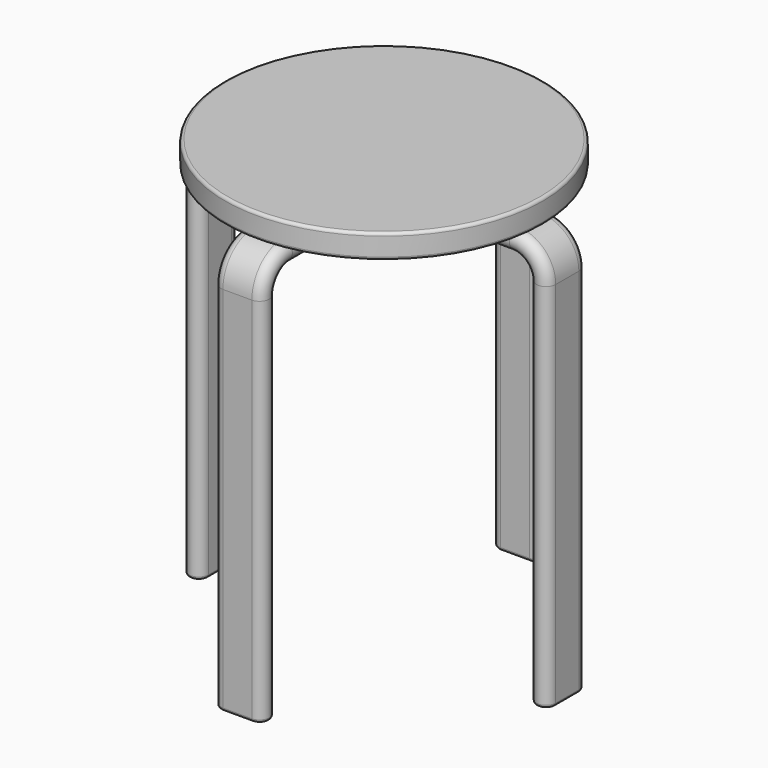
from build123d import *

# Parameters (mm, degrees)
F4_COUNT = 4
F5_W     = 165
F5_H     = 25
F7_R     = 3
F7_2_R   = 3
F7_3_R   = 3
F7_4_R   = 3
F7_5_R   = 3


with BuildPart() as f2:
    # F2: sweep along a path in F1
    with BuildLine(Plane.XZ) as f2_path:
        Line((-180, 0), (-180, 385))
        ThreePointArc((-180, 385), (-171.2132034356, 406.2132034356), (-150, 415))
        Line((-150, 415), (-50, 415))
    # F0 (on Top) → F2 (sweep)
    with BuildSketch(Plane.XY):
        with BuildLine():
            Line((-170, -15), (-170, 15))
            ThreePointArc((-170, 15), (-180, 25), (-190, 15))
            Line((-190, 15), (-190, -15))
            ThreePointArc((-190, -15), (-180, -25), (-170, -15))
        make_face()
    sweep(path=f2_path.line)


with BuildPart() as f4_1:
    # F4: instance of F2
    add(f2.part.rotate(Axis((0, 0, 41.5284819901), (0, 0, 1)), 1 * 360 / F4_COUNT))

    # F7#3
    f7_3_edges = [f4_1.edges().sort_by_distance(p)[0] for p in [
        (-15, -190, 192.5),
        (0, -190, 0),
        (15, -190, 192.5),
        (0, -190, 385),
        (15, -178.284271, 413.284271),
        (25, -180, 385),
        (15, -164.142136, 399.142136),
        (25, -150, 415),
        (15, -100, 425),
        (15, -100, 405),
        (25, -50, 415),
        (25, -180, 0),
        (15, -170, 192.5),
        (-15, -164.142136, 399.142136),
        (-25, -180, 385),
        (-15, -178.284271, 413.284271),
        (-25, -150, 415),
        (-15, -170, 192.5),
        (-25, -180, 0),
        (0, -50, 405),
        (-25, -50, 415),
        (0, -50, 425),
        (0, -170, 0),
        (0, -150, 425),
        (-15, -100, 405),
        (-15, -100, 425),
        (0, -170, 385),
        (0, -150, 405),
    ]]
    fillet(f7_3_edges, radius=F7_3_R)


with BuildPart() as f4_2:
    # F4: instance of F2
    add(f2.part.rotate(Axis((0, 0, 41.5284819901), (0, 0, 1)), 2 * 360 / F4_COUNT))

    # F7#4
    f7_4_edges = [f4_2.edges().sort_by_distance(p)[0] for p in [
        (50, 0, 405),
        (50, -25, 415),
        (50, 0, 425),
        (50, 25, 415),
        (170, 0, 0),
        (180, -25, 0),
        (190, 0, 0),
        (180, 25, 0),
        (170, -15, 192.5),
        (190, -15, 192.5),
        (180, -25, 385),
        (178.284271, -15, 413.284271),
        (100, -15, 405),
        (150, -25, 415),
        (100, -15, 425),
        (164.142136, -15, 399.142136),
        (190, 15, 192.5),
        (170, 15, 192.5),
        (180, 25, 385),
        (178.284271, 15, 413.284271),
        (164.142136, 15, 399.142136),
        (150, 25, 415),
        (190, 0, 385),
        (150, 0, 425),
        (100, 15, 425),
        (100, 15, 405),
        (170, 0, 385),
        (150, 0, 405),
    ]]
    fillet(f7_4_edges, radius=F7_4_R)


with BuildPart() as f4_3:
    # F4: instance of F2
    add(f2.part.rotate(Axis((0, 0, 41.5284819901), (0, 0, 1)), 3 * 360 / F4_COUNT))

    # F7#2
    f7_2_edges = [f4_3.edges().sort_by_distance(p)[0] for p in [
        (15, 170, 192.5),
        (25, 180, 0),
        (15, 190, 192.5),
        (25, 180, 385),
        (-15, 190, 192.5),
        (-25, 180, 0),
        (-15, 170, 192.5),
        (-25, 180, 385),
        (0, 170, 0),
        (0, 170, 385),
        (0, 190, 0),
        (15, 100, 405),
        (25, 150, 415),
        (15, 100, 425),
        (25, 50, 415),
        (0, 50, 425),
        (0, 50, 405),
        (-25, 50, 415),
        (15, 164.142136, 399.142136),
        (15, 178.284271, 413.284271),
        (-15, 100, 425),
        (-25, 150, 415),
        (-15, 100, 405),
        (0, 190, 385),
        (0, 150, 425),
        (-15, 178.284271, 413.284271),
        (0, 150, 405),
        (-15, 164.142136, 399.142136),
    ]]
    fillet(f7_2_edges, radius=F7_2_R)


with BuildPart() as f6:
    # F5 (on Front) → F6 (revolve)
    with BuildSketch(Plane.XZ):
        with Locations((-82.5, 437.5)):
            Rectangle(F5_W, F5_H)
    revolve(axis=Axis((0, 0, 41.5284819901), (0, 0, 1)))

    # F7
    f7_edges = [f6.edges().sort_by_distance(p)[0] for p in [
        (165, 0, 450),
        (165, 0, 425),
        (-165, 0, 437.5),
    ]]
    fillet(f7_edges, radius=F7_R)


with BuildPart() as f2_1:
    add(f2.part)

    # F7#5
    f7_5_edges = [f2_1.edges().sort_by_distance(p)[0] for p in [
        (-190, 0, 385),
        (-100, -15, 425),
        (-150, -25, 415),
        (-100, -15, 405),
        (-50, -25, 415),
        (-170, 15, 192.5),
        (-180, 25, 0),
        (-190, 15, 192.5),
        (-180, 25, 385),
        (-178.284271, -15, 413.284271),
        (-180, -25, 385),
        (-164.142136, -15, 399.142136),
        (-170, 0, 0),
        (-190, 0, 0),
        (-180, -25, 0),
        (-190, -15, 192.5),
        (-170, -15, 192.5),
        (-170, 0, 385),
        (-164.142136, 15, 399.142136),
        (-150, 0, 405),
        (-150, 0, 425),
        (-150, 25, 415),
        (-100, 15, 405),
        (-100, 15, 425),
        (-50, 25, 415),
        (-178.284271, 15, 413.284271),
        (-50, 0, 405),
        (-50, 0, 425),
    ]]
    fillet(f7_5_edges, radius=F7_5_R)


solid = Compound([f4_1.part, f4_2.part, f4_3.part, f6.part, f2_1.part])
